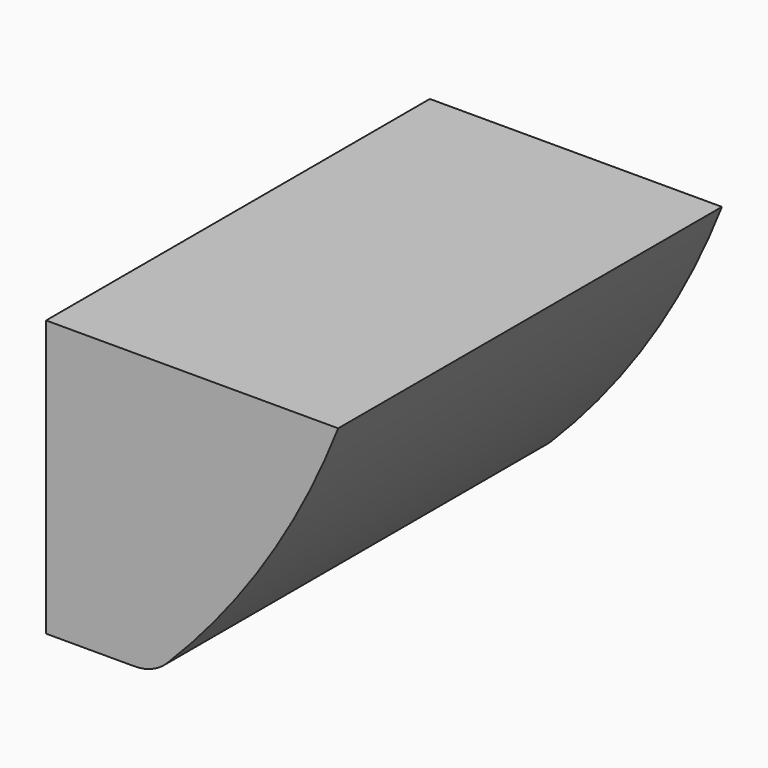
from build123d import *

# Parameters (mm, degrees)
F1_DEPTH = 20.9
F2_R     = 2


with BuildPart() as f1:
    # F0 (on Front) → F1 (new body)
    with BuildSketch(Plane.XZ):
        with BuildLine():
            Line((0, 12.015458), (0, 0))
            Line((0, 0), (4.675499, 0))
            ThreePointArc((4.675499, 0), (9.357757, 5.567749), (12.726794, 12.015458))
            Line((12.726794, 12.015458), (0, 12.015458))
        make_face()
    extrude(amount=F1_DEPTH)

    # F2
    f2_edges = [f1.edges().sort_by_distance(p)[0] for p in [
        (4.675499, -10.45, 0),
    ]]
    fillet(f2_edges, radius=F2_R)


solid = f1.part
